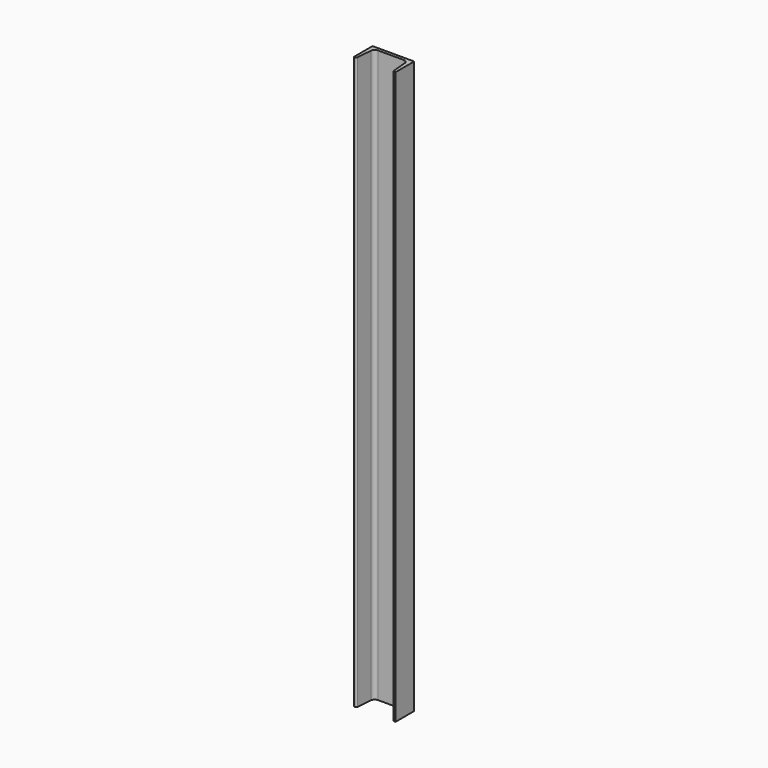
from build123d import *

# Parameters (mm, degrees)
PAD_DEPTH    = 1100
SKETCH001_R  = 6
POCKET_DEPTH = 80.001


with BuildPart() as part:
    # Sketch → Pad (new body)
    with BuildSketch(Plane.XY):
        with BuildLine():
            Line((0, 0), (0, 45))
            Line((0, 45), (80, 45))
            Line((80, 45), (80, 0))
            Line((80, 0), (78, 0))
            ThreePointArc((75.011416, 2.738533), (75.973229, 0.788168), (78, 0))
            Line((75.011416, 2.738533), (72.437925, 32.153668))
            ThreePointArc((72.437925, 32.153668), (70.033391, 37.02958), (64.966465, 39))
            Line((64.966465, 39), (15.033535, 39))
            ThreePointArc((15.033535, 39), (9.966609, 37.02958), (7.562075, 32.153668))
            Line((4.988584, 2.738533), (7.562075, 32.153668))
            ThreePointArc((2, 0), (4.026771, 0.788168), (4.988584, 2.738533))
            Line((0, 0), (2, 0))
        make_face()
    extrude(amount=PAD_DEPTH)

    # Sketch001 (on Face2 of Pad) → Pocket (cut, through all)
    with BuildSketch(Plane(origin=(0, 0, 0), x_dir=(0, -1, 0), z_dir=(-1, 0, 0))):
        with Locations((-62, 1050)):
            Circle(SKETCH001_R)
    extrude(amount=-POCKET_DEPTH, mode=Mode.SUBTRACT)


solid = part.part
